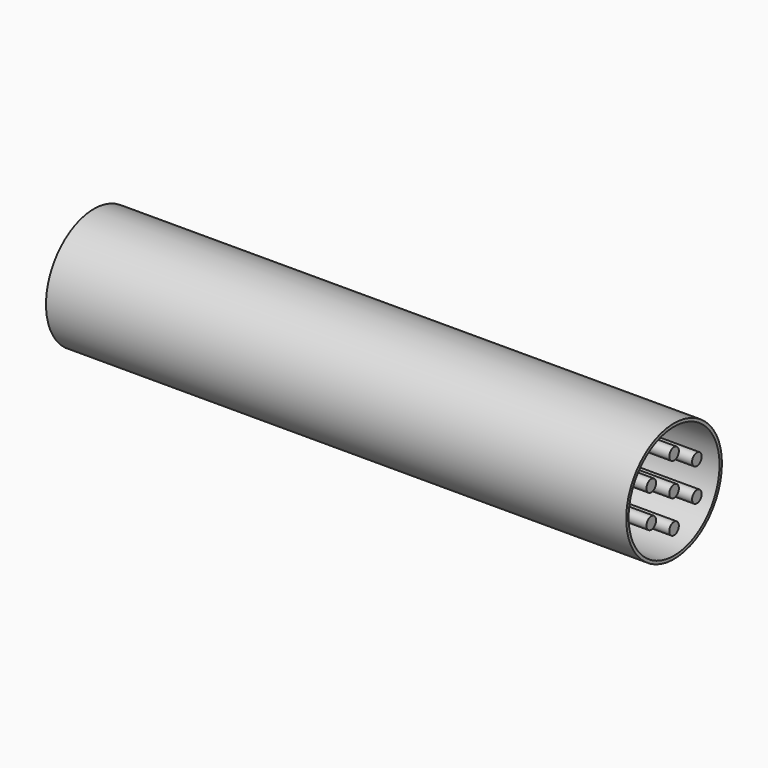
from build123d import *

# Parameters (mm, degrees)
F0_R     = 63.5
F0_R_2   = 60.325
F1_DEPTH = 615.95
F2_R     = 6.35
F3_DEPTH = 615.95


with BuildPart() as f1:
    # F0 (on Right) → F1 (new body)
    with BuildSketch(Plane.YZ):
        Circle(F0_R)
        Circle(F0_R_2, mode=Mode.SUBTRACT)
    extrude(amount=F1_DEPTH)


with BuildPart() as f3:
    # F2 (on Right) → F3 (new body)
    with BuildSketch(Plane.YZ):
        with Locations((30.245937, 17.4625)):
            Circle(F2_R)
        with Locations((0, 34.925)):
            Circle(F2_R)
        with Locations((-30.245937, 17.4625)):
            Circle(F2_R)
        with Locations((-30.245937, -17.4625)):
            Circle(F2_R)
        Circle(F2_R)
        with Locations((30.245937, -17.4625)):
            Circle(F2_R)
        with Locations((0, -34.925)):
            Circle(F2_R)
    extrude(amount=F3_DEPTH)


solid = Compound([f1.part, f3.part])
